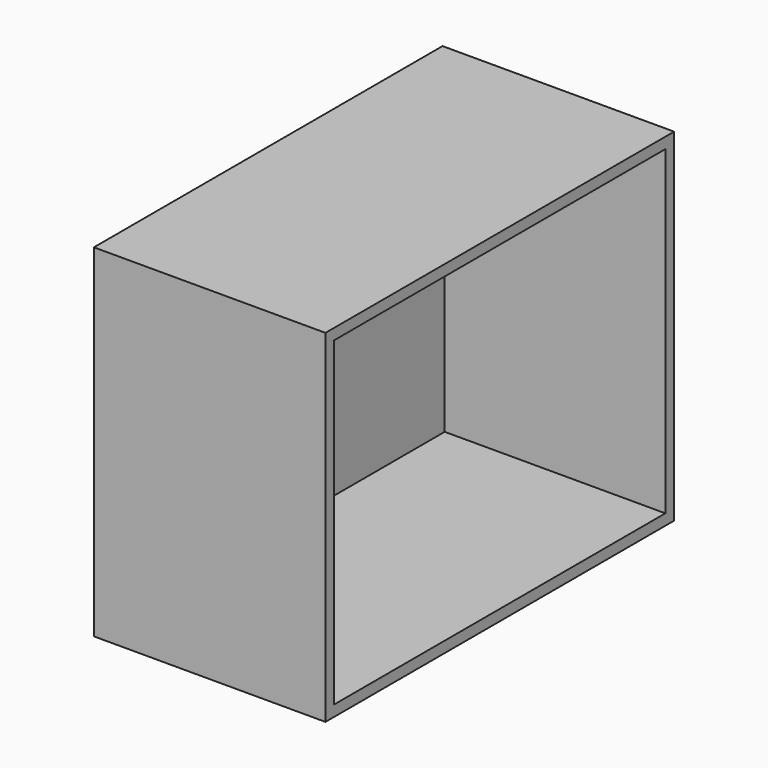
from build123d import *

# Parameters (mm, degrees)
F0_W     = 101.154857
F0_H     = 79.505231
F1_DEPTH = 26.87699
F2_T     = -2.54


with BuildPart() as f1:
    # F0 (on Right) → F1 (new body, symmetric)
    with BuildSketch(Plane.YZ):
        with Locations((2.519607, -1.681192)):
            Rectangle(F0_W, F0_H)
    extrude(amount=F1_DEPTH, both=True)

    # F2
    f2_openings = [f1.faces().sort_by_distance(p)[0] for p in [
        (26.87699, 2.519608, -1.681192),
    ]]
    offset(amount=F2_T, openings=f2_openings)


solid = f1.part
